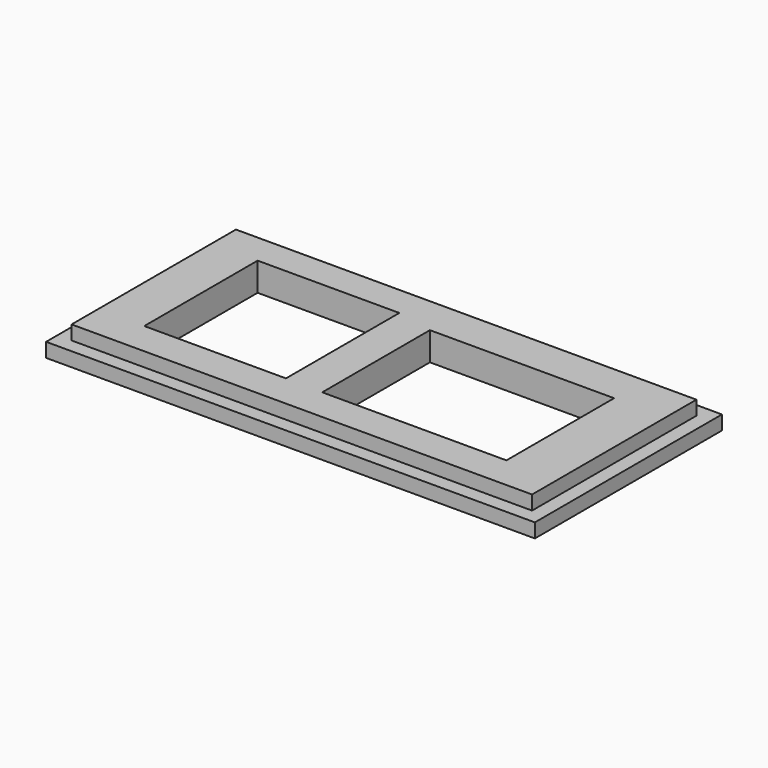
from build123d import *

# Parameters (mm, degrees)
SKETCH_W      = 65
SKETCH_H      = 29
PAD_DEPTH     = 2
SKETCH002_W   = 69
SKETCH002_H   = 33
PAD001_DEPTH  = 2
SKETCH003_W   = 20
SKETCH003_H   = 20
SKETCH003_W_2 = 26
SKETCH003_H_2 = 19
POCKET_DEPTH  = 4.001


with BuildPart() as part:
    # Sketch → Pad (new body)
    with BuildSketch(Plane.XY):
        Rectangle(SKETCH_W, SKETCH_H)
    extrude(amount=PAD_DEPTH)

    # Sketch002 (on Face5 of Pad) → Pad001 (join)
    with BuildSketch(Plane(origin=(0, 0, 0), x_dir=(1, 0, 0), z_dir=(0, 0, -1))):
        Rectangle(SKETCH002_W, SKETCH002_H)
    extrude(amount=PAD001_DEPTH)

    # Sketch003 (on Face11 of Pad001) → Pocket (cut, through all)
    with BuildSketch(Plane.XY.offset(2)):
        with Locations((-16, 0.2)):
            Rectangle(SKETCH003_W, SKETCH003_H)
        with Locations((12.2, -0.4)):
            Rectangle(SKETCH003_W_2, SKETCH003_H_2)
    extrude(amount=-POCKET_DEPTH, mode=Mode.SUBTRACT)


solid = part.part
